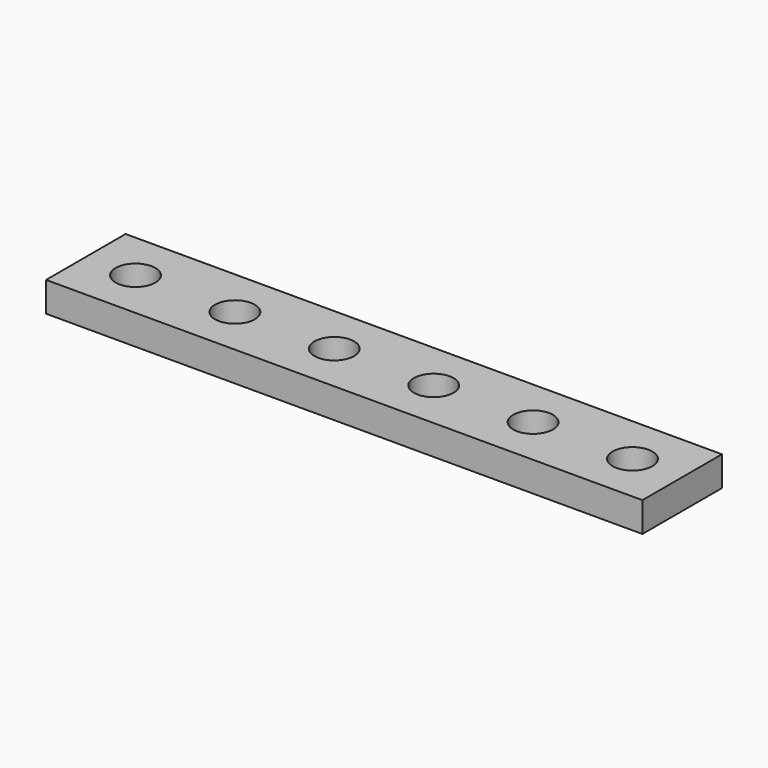
from build123d import *

# Parameters (mm, degrees)
SKETCH_W  = 60
SKETCH_H  = 10
SKETCH_R  = 2
PAD_DEPTH = 3


with BuildPart() as part:
    # Sketch → Pad (new body)
    with BuildSketch(Plane.XY):
        Rectangle(SKETCH_W, SKETCH_H)
        with Locations((-25, 0)):
            Circle(SKETCH_R, mode=Mode.SUBTRACT)
        with Locations((-15, 0)):
            Circle(SKETCH_R, mode=Mode.SUBTRACT)
        with Locations((-5, 0)):
            Circle(SKETCH_R, mode=Mode.SUBTRACT)
        with Locations((5, 0)):
            Circle(SKETCH_R, mode=Mode.SUBTRACT)
        with Locations((15, 0)):
            Circle(SKETCH_R, mode=Mode.SUBTRACT)
        with Locations((25, 0)):
            Circle(SKETCH_R, mode=Mode.SUBTRACT)
    extrude(amount=PAD_DEPTH)


solid = part.part
